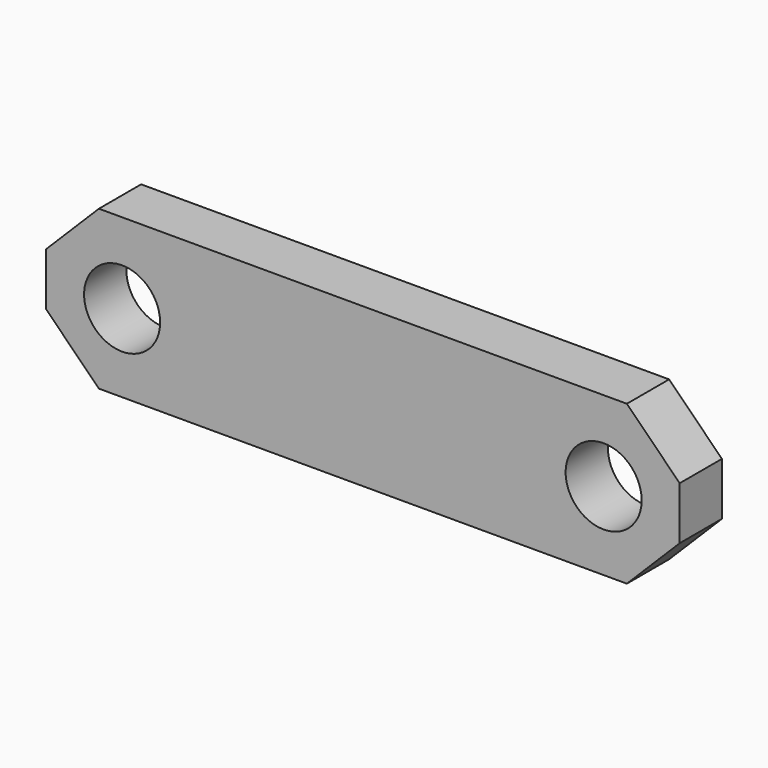
from build123d import *

# Parameters (mm, degrees)
F0_W     = 76.2
F0_H     = 19.05
F0_R     = 4.572
F1_DEPTH = 6.35
F2_SIZE  = 6.35
F3_SIZE  = 6.35


with BuildPart() as f1:
    # F0 (on Front) → F1 (new body)
    with BuildSketch(Plane.XZ):
        with Locations((7.15868, 0.127)):
            Rectangle(F0_W, F0_H)
        with Locations((-21.79732, 0)):
            Circle(F0_R, mode=Mode.SUBTRACT)
        with Locations((36.11468, 0)):
            Circle(F0_R, mode=Mode.SUBTRACT)
    extrude(amount=F1_DEPTH)

    # F2
    f2_edges = [f1.edges().sort_by_distance(p)[0] for p in [
        (-30.94132, -3.175, 9.652),
        (45.25868, -3.175, 9.652),
        (45.25868, -3.175, -9.398),
    ]]
    chamfer(f2_edges, length=F2_SIZE)

    # F3
    f3_edges = [f1.edges().sort_by_distance(p)[0] for p in [
        (-30.94132, -3.175, -9.398),
    ]]
    chamfer(f3_edges, length=F3_SIZE)


solid = f1.part
